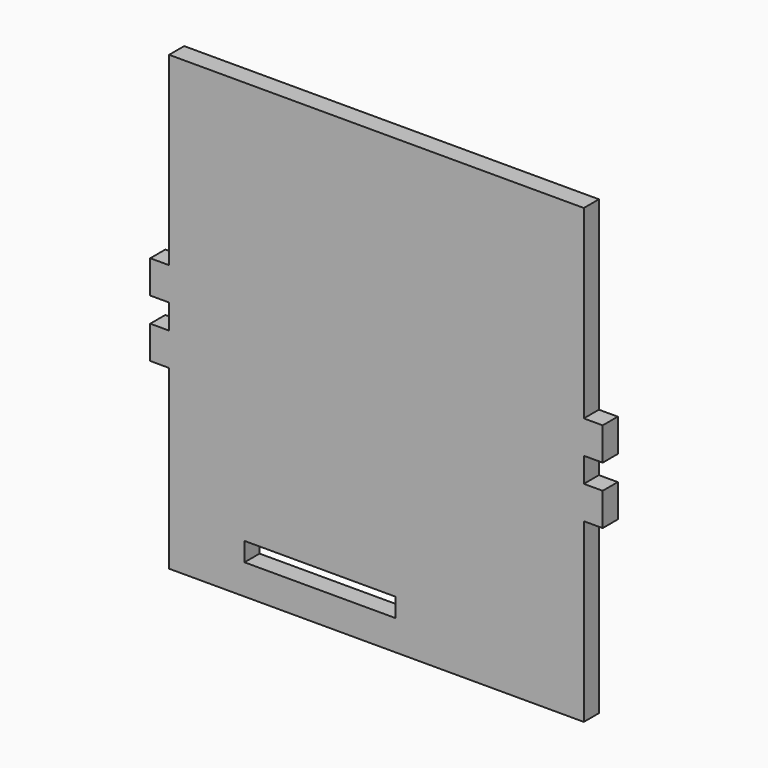
from build123d import *

# Parameters (mm, degrees)
F0_W     = 25.4
F0_H     = 3.175
F1_DEPTH = 3.175


with BuildPart() as f1:
    # F0 (on Front) → F1 (new body)
    with BuildSketch(Plane.XZ):
        Polygon((-34.925, -37.384468), (34.925, -37.384468), (34.925, -7.62), (38.1, -7.62), (38.1, -2.0828), (34.925, -2.0828), (34.925, 2.0828), (38.1, 2.0828), (38.1, 7.62), (34.925, 7.62), (34.925, 38.815532), (-34.925, 38.815532), (-34.925, 7.62), (-38.1, 7.62), (-38.1, 2.0828), (-34.925, 2.0828), (-34.925, -2.0828), (-38.1, -2.0828), (-38.1, -7.62), (-34.925, -7.62), align=None)
        with Locations((-9.525, -30.716968)):
            Rectangle(F0_W, F0_H, mode=Mode.SUBTRACT)
    extrude(amount=F1_DEPTH)


solid = f1.part
